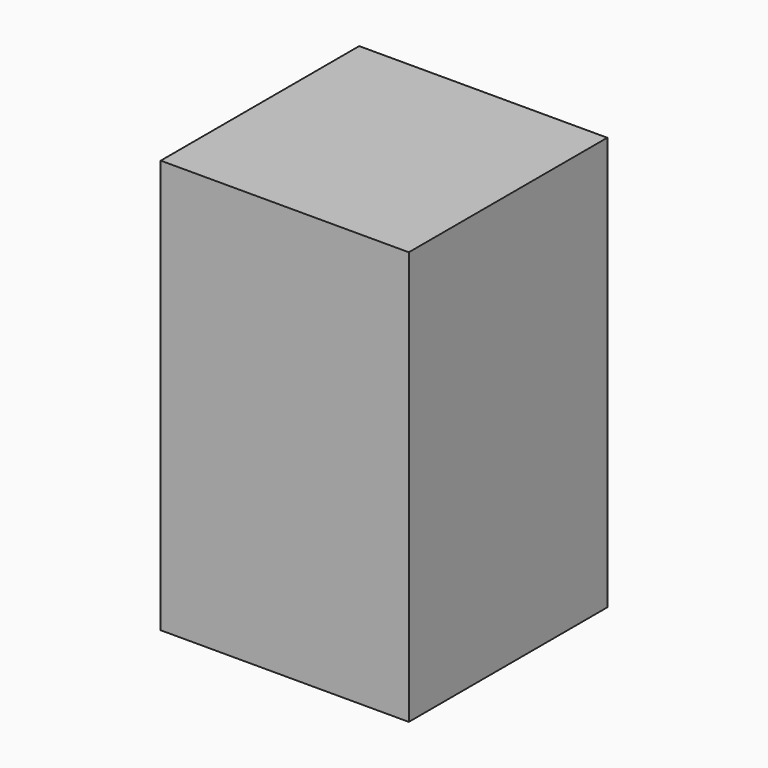
from build123d import *

# Parameters (mm, degrees)
F0_W = 30
F0_H = 30


with BuildPart() as f2:
    # F2: sweep along a path in F1
    with BuildLine(Plane.XZ) as f2_path:
        Line((0, 0), (0, 50))
    # F0 (on Top) → F2 (sweep)
    with BuildSketch(Plane.XY):
        Rectangle(F0_W, F0_H)
    sweep(path=f2_path.line)


solid = f2.part
